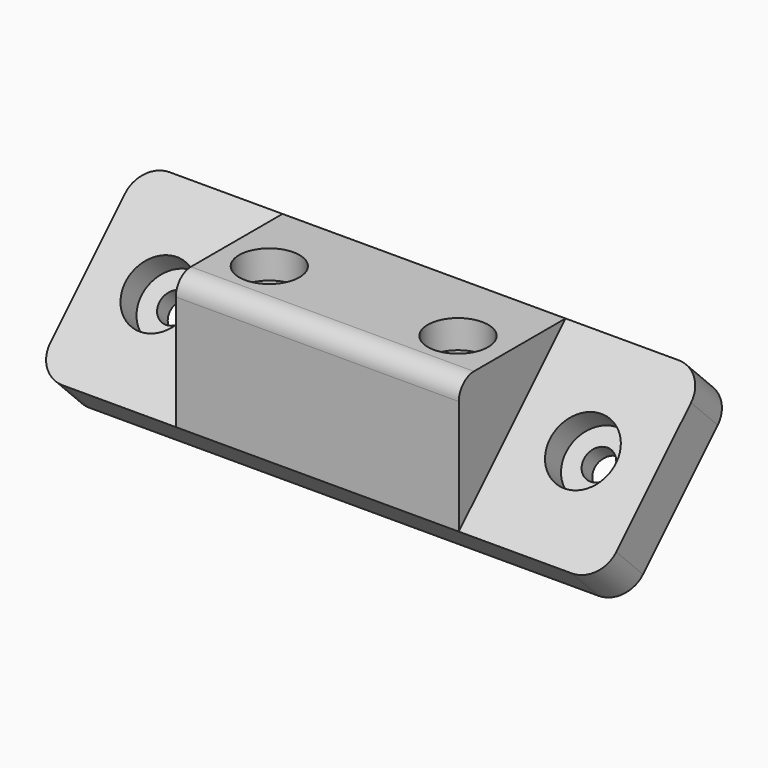
from build123d import *

# Parameters (mm, degrees)
PAD004_DEPTH     = 15
PAD005_DEPTH     = 30
SKETCH009_R      = 3.2
POCKET003_DEPTH  = 3
HOLE_D           = 3.2
HOLE_CBORE_D     = 7
HOLE_CBORE_DEPTH = 3
FILLET_R         = 2
FILLET001_R      = 3


with BuildPart() as part:
    # Sketch007 → Pad004 (new body, symmetric)
    with BuildSketch(Plane.YZ):
        Polygon((0, 0), (-14.142136, -14.142136), (-14.142136, 0), align=None)
    extrude(amount=PAD004_DEPTH, both=True)

    # Sketch008 → Pad005 (join, symmetric)
    with BuildSketch(Plane.YZ):
        Polygon((0, 0), (-14.142136, -14.142136), (-10.606602, -17.67767), (3.535534, -3.535534), align=None)
    extrude(amount=PAD005_DEPTH, both=True)

    # Sketch009 (on Face3 of Pad005) → Pocket003 (cut)
    with BuildSketch(Plane(origin=(0, 0, 0), x_dir=(0, -1, 0), z_dir=(0, 0, 1))):
        with Locations((8, 10)):
            Circle(SKETCH009_R)
        with Locations((8, -10)):
            Circle(SKETCH009_R)
    extrude(amount=-POCKET003_DEPTH, mode=Mode.SUBTRACT)

    # Hole (through all)
    with Locations(Plane(origin=(0, 0, 0), x_dir=(0, -0.707107, -0.707107), z_dir=(0, -0.707107, 0.707107))):
        with Locations((10, 22.5), (10, -22.5)):
            CounterBoreHole(HOLE_D / 2, HOLE_CBORE_D / 2, HOLE_CBORE_DEPTH)

    # Fillet
    fillet_edges = [part.edges().sort_by_distance(p)[0] for p in [
        (0, -14.142136, 0),
    ]]
    fillet(fillet_edges, radius=FILLET_R)

    # Fillet001
    fillet001_edges = [part.edges().sort_by_distance(p)[0] for p in [
        (-30, 1.767767, -1.767767),
        (-30, -12.374369, -15.909903),
        (30, 1.767767, -1.767767),
        (30, -12.374369, -15.909903),
    ]]
    fillet(fillet001_edges, radius=FILLET001_R)


with BuildPart() as part_1:
    # Body002 placement: moved
    add(part.part.moved(Location((0, 55, -10))))


solid = part_1.part
